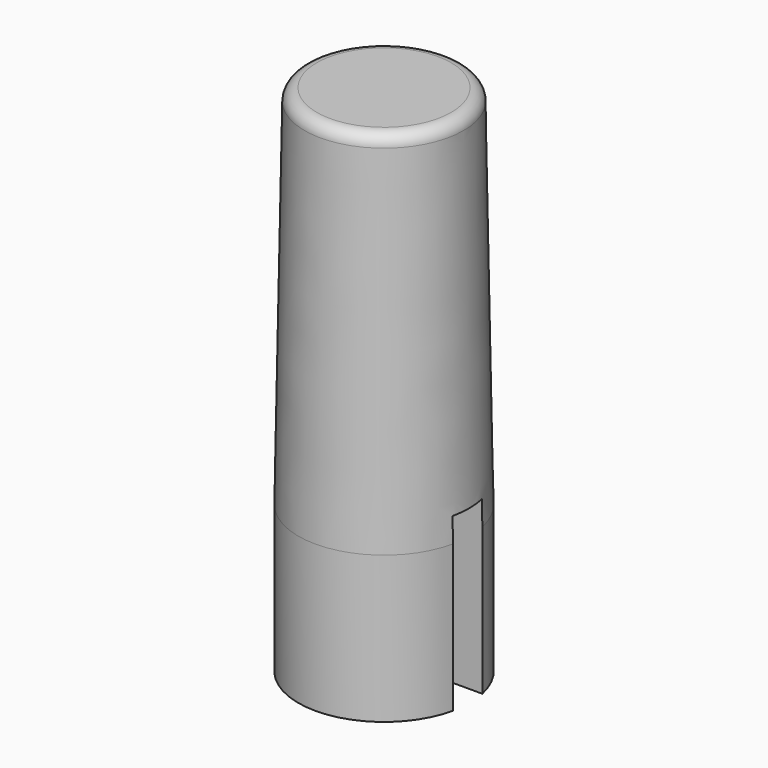
from build123d import *

# Parameters (mm, degrees)
F0_R          = 3.5
F1_DEPTH      = 6
F1_FACE_R     = 3.5
F2_DEPTH      = 15
F2_TAPER      = 1
F3_W          = 4
F3_H          = 4
F4_DEPTH      = 18.45601
F5_W          = 1.5
F5_H          = 7
F6_DEPTH      = 3.501
F6_DEPTH_BACK = 3.501
F7_R          = 0.5


with BuildPart() as f1:
    # F0 (on Top) → F1 (new body)
    with BuildSketch(Plane.XY):
        Circle(F0_R)
    extrude(amount=F1_DEPTH)

    # F1_face (on face) → F2 (join)
    with BuildSketch(Plane.XY.offset(6)):
        Circle(F1_FACE_R)
    extrude(amount=F2_DEPTH, taper=F2_TAPER)

    # F3 (on face) → F4 (cut)
    with BuildSketch(Plane(origin=(0, 0, 0), x_dir=(1, 0, 0), z_dir=(0, 0, -1))):
        Rectangle(F3_W, F3_H)
    extrude(amount=-F4_DEPTH, mode=Mode.SUBTRACT)

    # F5 (on Right) → F6 (cut, two sides)
    with BuildSketch(Plane.YZ) as f6_sk:
        with Locations((0, 3.5)):
            Rectangle(F5_W, F5_H)
    extrude(amount=-F6_DEPTH, mode=Mode.SUBTRACT)
    extrude(f6_sk.sketch, amount=F6_DEPTH_BACK, mode=Mode.SUBTRACT)

    # F7
    f7_edges = [f1.edges().sort_by_distance(p)[0] for p in [
        (-3.238174, 0, 21),
    ]]
    fillet(f7_edges, radius=F7_R)


solid = f1.part
